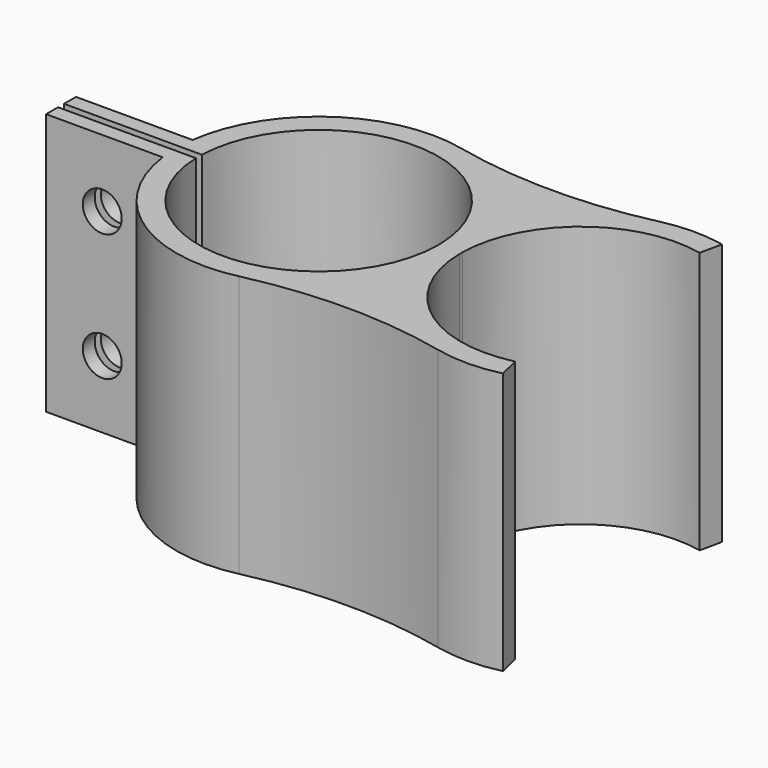
from build123d import *

# Parameters (mm, degrees)
F1_DEPTH = 35
F3_DEPTH = 40
F4_DEPTH = 35
F5_R     = 2.6
F6_DEPTH = 12.5


with BuildPart() as f1:
    # F0 (on Top) → F1 (new body)
    with BuildSketch(Plane.XY):
        with BuildLine():
            ThreePointArc((30.7878121478, 18.5280684134), (17.4981090624, 17.03775814), (4.208405977, 18.5280684134))
            ThreePointArc((4.208405977, 18.5280684134), (-19, 0), (4.208405977, -18.5280684134))
            ThreePointArc((4.208405977, -18.5280684134), (17.4981090624, -17.03775814), (30.7878121478, -18.5280684134))
            ThreePointArc((30.7878121478, -18.5280684134), (35.0954185177, -18.999741032), (39.3978648328, -18.4831140844))
            Line((39.3978648328, -18.4831140844), (38.7028679842, -15.5647276501))
            ThreePointArc((38.7028679842, -15.5647276501), (25.1801121151, -12.6350331541), (18.9982711603, -0.2563062995))
            ThreePointArc((18.9982711603, -0.2563062995), (18.9962181249, 0), (18.9982711603, 0.2563062995))
            ThreePointArc((18.9982711603, 0.2563062995), (25.0510572832, 12.5337055907), (38.3828757407, 15.6374726281))
            Line((38.3828757407, 15.6374726281), (39.0178740437, 18.5694987458))
            ThreePointArc((39.0178740437, 18.5694987458), (38.8268942308, 18.6098339748), (38.6355101254, 18.6482051076))
            ThreePointArc((38.6355101254, 18.6482051076), (38.6103354346, 18.6531004412), (38.585154159, 18.6579617896))
            ThreePointArc((38.585154159, 18.6579617896), (34.6797472339, 18.9973641902), (30.7878121478, 18.5280684134))
        make_face()
        with BuildLine():
            ThreePointArc((15.9979469646, 0.2563062995), (15.9994867329, 0.1281572609), (16, 0))
            ThreePointArc((16, 0), (15.9994867329, -0.1281572609), (15.9979469646, -0.2563062995))
            ThreePointArc((15.9979469646, -0.2563062995), (-16, 0), (15.9979469646, 0.2563062995))
        make_face(mode=Mode.SUBTRACT)
    extrude(amount=F1_DEPTH)

    # F2 (on Top) → F3 (cut)
    with BuildSketch(Plane.XY):
        Polygon((-18.4108596295, -0.5), (-14.4108596295, -0.5), (-14.4108596295, 0.5), (-18.4108596295, 0.5), (-22.4108596295, 0.5), (-22.4108596295, -0.5), align=None)
    extrude(amount=F3_DEPTH, mode=Mode.SUBTRACT)

    # F2 (on Top) → F4 (join)
    with BuildSketch(Plane.XY):
        Polygon((-22.4108596295, 0.5), (-18.4108596295, 0.5), (-18.4108596295, 2.5), (-34.4108596295, 2.5), (-34.4108596295, 0.5), align=None)
        Polygon((-18.4108596295, -2.5), (-18.4108596295, -0.5), (-22.4108596295, -0.5), (-34.4108596295, -0.5), (-34.4108596295, -2.5), align=None)
    extrude(amount=F4_DEPTH)

    # F5 (on Front) → F6 (cut, symmetric)
    with BuildSketch(Plane.XZ):
        with Locations((-26.9108596295, 26)):
            Circle(F5_R)
        with Locations((-26.9108596295, 9)):
            Circle(F5_R)
    extrude(amount=F6_DEPTH, both=True, mode=Mode.SUBTRACT)


solid = f1.part
